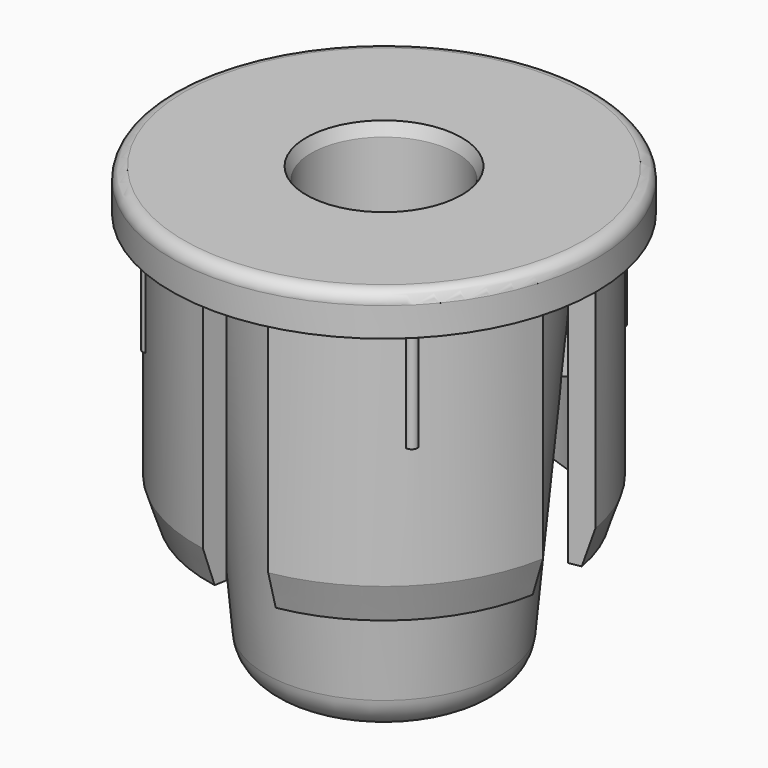
from build123d import *

# Parameters (mm, degrees)
SKETCH_R              = 17.5
PAD_DEPTH             = 3.4
FILLET_R              = 1
SKETCH001_R           = 15.5
SKETCH001_R_2         = 13.5
PAD001_DEPTH          = 22
CHAMFER_SIZE2         = 1
CHAMFER_SIZE          = 3
POCKET_DEPTH          = 22
POLARPATTERN_COUNT    = 4
PAD002_DEPTH          = 10
POLARPATTERN001_COUNT = 4
SKETCH006_R           = 12.5
SKETCH005_R           = 9.5
SKETCH007_R           = 6
POCKET001_DEPTH       = 36.401
FILLET001_R           = 3
CHAMFER002_SIZE2      = 0.4
CHAMFER002_SIZE       = 1
PAD003_DEPTH          = 12
POLARPATTERN002_COUNT = 4


with BuildPart() as part:
    # Sketch (on XY_Plane of Origin) → Pad (new body)
    with BuildSketch(Plane.XY):
        Circle(SKETCH_R)
    extrude(amount=PAD_DEPTH)

    # Fillet
    fillet_edges = [part.edges().sort_by_distance(p)[0] for p in [
        (-17.5, 0, 3.4),
    ]]
    fillet(fillet_edges, radius=FILLET_R)

    # Sketch001 (on Face3 of Fillet) → Pad001 (join)
    with BuildSketch(Plane(origin=(0, 0, 0), x_dir=(1, 0, 0), z_dir=(0, 0, -1))):
        Circle(SKETCH001_R)
        Circle(SKETCH001_R_2, mode=Mode.SUBTRACT)
    extrude(amount=PAD001_DEPTH)

    # Chamfer
    chamfer_edges = [part.edges().sort_by_distance(p)[0] for p in [
        (-15.5, 0, -22),
    ]]
    chamfer_side = part.faces().sort_by_distance((-15.5, 0, -11))[0]
    chamfer(chamfer_edges, length=CHAMFER_SIZE, length2=CHAMFER_SIZE2, reference=chamfer_side)

    # Sketch003 (on Face3 of Chamfer) → Pocket (cut)
    with BuildSketch(Plane(origin=(0, 0, 0), x_dir=(1, 0, 0), z_dir=(0, 0, -1))):
        with BuildLine():
            ThreePointArc((2.929699, 16.745652), (-0.022663, 16.999985), (-2.974337, 16.737781))
            Line((-2.974337, 16.737781), (-2.170603, 12.310097))
            ThreePointArc((2.170603, 12.310097), (0, 12.5), (-2.170603, 12.310097))
            Line((2.929699, 16.745652), (2.170603, 12.310097))
        make_face()
    pocket = extrude(amount=POCKET_DEPTH, mode=Mode.SUBTRACT)

    # PolarPattern: Pocket ×4 about axis
    polarpattern_axis = Axis((0, 0, 0), (0, 0, -1))
    for i in range(1, POLARPATTERN_COUNT):
        add(pocket.rotate(polarpattern_axis, i * 360 / POLARPATTERN_COUNT), mode=Mode.SUBTRACT)

    # Sketch004 → Pad002 (join)
    with BuildSketch(Plane(origin=(0, 0, -9), x_dir=(0.707107, 0.707107, 0), z_dir=(0, 0, 1))):
        with BuildLine():
            ThreePointArc((0.31147, 15.49687), (-0.094297, 15.499713), (-0.5, 15.491933))
            ThreePointArc((0.31147, 15.49687), (-0.095665, 15.724518), (-0.5, 15.491933))
        make_face()
    pad002 = extrude(amount=PAD002_DEPTH)

    # PolarPattern001: Pad002 ×4 about axis
    polarpattern001_axis = Axis((0, 0, -9), (0, 0, 1))
    for i in range(1, POLARPATTERN001_COUNT):
        add(pad002.rotate(polarpattern001_axis, i * 360 / POLARPATTERN001_COUNT))

    # Sketch006 (on Face3 of PolarPattern001) → AdditiveLoft section 0
    with BuildSketch(Plane(origin=(0, 0, 0), x_dir=(1, 0, 0), z_dir=(0, 0, -1))):
        Circle(SKETCH006_R)
    # Sketch005 (on Face3 of PolarPattern001) → AdditiveLoft section 1
    with BuildSketch(Plane(origin=(0, 0, -33), x_dir=(1, 0, 0), z_dir=(0, 0, -1))):
        Circle(SKETCH005_R)
    loft()

    # Sketch007 (on Face32 of AdditiveLoft) → Pocket001 (cut, through all)
    with BuildSketch(Plane(origin=(0, 0, -33), x_dir=(1, 0, 0), z_dir=(0, 0, -1))):
        Circle(SKETCH007_R)
    extrude(amount=-POCKET001_DEPTH, mode=Mode.SUBTRACT)

    # Fillet001
    fillet001_edges = [part.edges().sort_by_distance(p)[0] for p in [
        (-9.5, 0, -33),
    ]]
    fillet(fillet001_edges, radius=FILLET001_R)

    # Chamfer002
    chamfer002_edges = [part.edges().sort_by_distance(p)[0] for p in [
        (-6, 0, 3.4),
    ]]
    chamfer002_side = part.faces().sort_by_distance((-6, 0, -14.8))[0]
    chamfer(chamfer002_edges, length=CHAMFER002_SIZE, length2=CHAMFER002_SIZE2, reference=chamfer002_side)

    # Sketch008 (on Face9 of Chamfer002) → Pad003 (join)
    with BuildSketch(Plane(origin=(0, 0, 0), x_dir=(0.087156, -0.996195, 0), z_dir=(0, 0, -1))):
        with BuildLine():
            ThreePointArc((-9.880104, 9.918848), (-10.706992, 9.019996), (-11.452393, 8.052496))
            Line((-11.452393, 8.052496), (-7.356621, 5.184605))
            ThreePointArc((-6.344559, 6.383304), (-6.876758, 5.806048), (-7.356621, 5.184605))
            Line((-6.344559, 6.383304), (-9.880104, 9.918848))
        make_face()
    pad003 = extrude(amount=PAD003_DEPTH)

    # PolarPattern002: Pad003 ×4 about axis
    polarpattern002_axis = Axis((0, 0, 0), (0, 0, -1))
    for i in range(1, POLARPATTERN002_COUNT):
        add(pad003.rotate(polarpattern002_axis, i * 360 / POLARPATTERN002_COUNT))


solid = part.part
